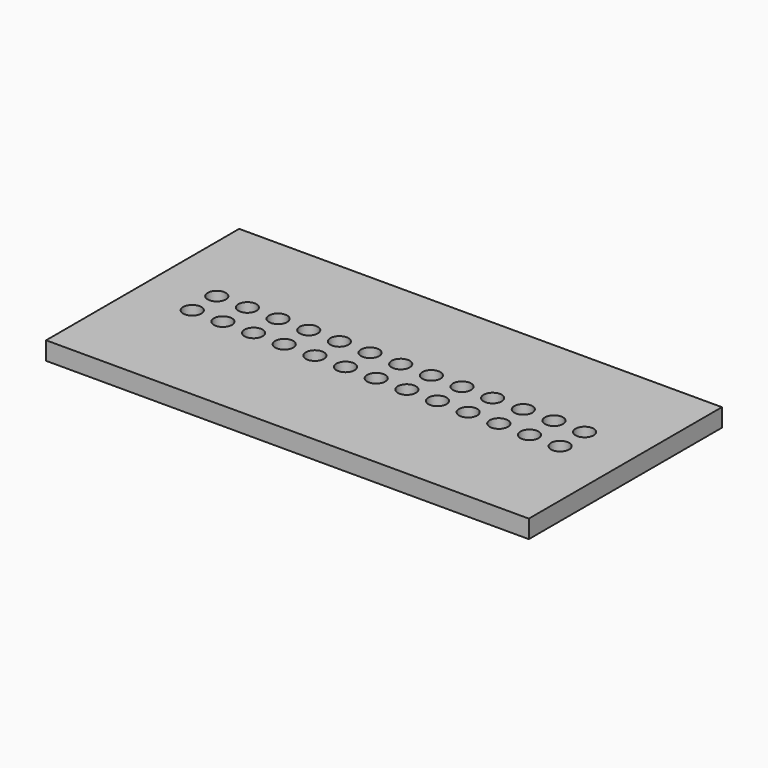
from build123d import *

# Parameters (mm, degrees)
F0_W     = 40
F0_H     = 20
F0_W_2   = 2.54
F0_H_2   = 1.23
F0_H_3   = 2.54
F0_W_3   = 1.26
F1_DEPTH = 1.5
F2_D     = 1.5


with BuildPart() as f1:
    # F0 (on Top) → F1 (new body)
    with BuildSketch(Plane.XY):
        Rectangle(F0_W, F0_H)
        Polygon((-16.5, 1.73), (-16.5, 2.96), (-15.24, 2.96), (-12.7, 2.96), (-10.16, 2.96), (-7.62, 2.96), (-5.08, 2.96), (-2.54, 2.96), (0, 2.96), (2.54, 2.96), (5.08, 2.96), (7.62, 2.96), (10.16, 2.96), (12.7, 2.96), (15.24, 2.96), (16.5, 2.96), (16.5, 1.73), (16.5, -0.81), (16.5, -2.04), (15.24, -2.04), (12.7, -2.04), (10.16, -2.04), (7.62, -2.04), (5.08, -2.04), (2.54, -2.04), (0, -2.04), (-2.54, -2.04), (-5.08, -2.04), (-7.62, -2.04), (-10.16, -2.04), (-12.7, -2.04), (-15.24, -2.04), (-16.5, -2.04), (-16.5, -0.81), align=None, mode=Mode.SUBTRACT)
        with Locations((-11.43, 2.345)):
            Rectangle(F0_W_2, F0_H_2)
        with Locations((-13.97, 2.345)):
            Rectangle(F0_W_2, F0_H_2)
        with Locations((1.27, 0.46)):
            Rectangle(F0_W_2, F0_H_3)
        with Locations((-1.27, -1.425)):
            Rectangle(F0_W_2, F0_H_2)
        with Locations((13.97, -1.425)):
            Rectangle(F0_W_2, F0_H_2)
        with Locations((13.97, 2.345)):
            Rectangle(F0_W_2, F0_H_2)
        with Locations((-15.87, 0.46)):
            Rectangle(F0_W_3, F0_H_3)
        with Locations((6.35, 0.46)):
            Rectangle(F0_W_2, F0_H_3)
        with Locations((6.35, -1.425)):
            Rectangle(F0_W_2, F0_H_2)
        with Locations((3.81, -1.425)):
            Rectangle(F0_W_2, F0_H_2)
        with Locations((8.89, 0.46)):
            Rectangle(F0_W_2, F0_H_3)
        with Locations((1.27, -1.425)):
            Rectangle(F0_W_2, F0_H_2)
        with Locations((-8.89, 0.46)):
            Rectangle(F0_W_2, F0_H_3)
        with Locations((-3.81, -1.425)):
            Rectangle(F0_W_2, F0_H_2)
        with Locations((11.43, 2.345)):
            Rectangle(F0_W_2, F0_H_2)
        with Locations((-13.97, -1.425)):
            Rectangle(F0_W_2, F0_H_2)
        with Locations((8.89, 2.345)):
            Rectangle(F0_W_2, F0_H_2)
        with Locations((-3.81, 2.345)):
            Rectangle(F0_W_2, F0_H_2)
        with Locations((-6.35, 2.345)):
            Rectangle(F0_W_2, F0_H_2)
        with Locations((1.27, 2.345)):
            Rectangle(F0_W_2, F0_H_2)
        with Locations((3.81, 2.345)):
            Rectangle(F0_W_2, F0_H_2)
        with Locations((15.87, 0.46)):
            Rectangle(F0_W_3, F0_H_3)
        with Locations((-1.27, 2.345)):
            Rectangle(F0_W_2, F0_H_2)
        with Locations((-8.89, 2.345)):
            Rectangle(F0_W_2, F0_H_2)
        with Locations((6.35, 2.345)):
            Rectangle(F0_W_2, F0_H_2)
        with Locations((-3.81, 0.46)):
            Rectangle(F0_W_2, F0_H_3)
        with Locations((-8.89, -1.425)):
            Rectangle(F0_W_2, F0_H_2)
        with Locations((-13.97, 0.46)):
            Rectangle(F0_W_2, F0_H_3)
        with Locations((3.81, 0.46)):
            Rectangle(F0_W_2, F0_H_3)
        with Locations((-11.43, 0.46)):
            Rectangle(F0_W_2, F0_H_3)
        with Locations((-11.43, -1.425)):
            Rectangle(F0_W_2, F0_H_2)
        with Locations((11.43, -1.425)):
            Rectangle(F0_W_2, F0_H_2)
        with Locations((-6.35, 0.46)):
            Rectangle(F0_W_2, F0_H_3)
        with Locations((-1.27, 0.46)):
            Rectangle(F0_W_2, F0_H_3)
        with Locations((13.97, 0.46)):
            Rectangle(F0_W_2, F0_H_3)
        with Locations((11.43, 0.46)):
            Rectangle(F0_W_2, F0_H_3)
        with Locations((8.89, -1.425)):
            Rectangle(F0_W_2, F0_H_2)
        with Locations((-6.35, -1.425)):
            Rectangle(F0_W_2, F0_H_2)
        with Locations((15.87, -1.425)):
            Rectangle(F0_W_3, F0_H_2)
        with Locations((-15.87, -1.425)):
            Rectangle(F0_W_3, F0_H_2)
        with Locations((15.87, 2.345)):
            Rectangle(F0_W_3, F0_H_2)
        with Locations((-15.87, 2.345)):
            Rectangle(F0_W_3, F0_H_2)
    extrude(amount=F1_DEPTH)

    # F2 (through all)
    with Locations(Plane(origin=(0, 0, 0), x_dir=(1, 0, 0), z_dir=(0, 0, -1))):
        with Locations((12.7, -1.73), (12.7, 0.81), (15.24, 0.81), (15.24, -1.73), (10.16, -1.73), (10.16, 0.81), (7.62, 0.81), (7.62, -1.73), (5.08, -1.73), (5.08, 0.81), (2.54, 0.81), (2.54, -1.73), (0, -1.73), (0, 0.81), (-2.54, 0.81), (-2.54, -1.73), (-5.08, -1.73), (-5.08, 0.81), (-7.62, 0.81), (-7.62, -1.73), (-10.16, -1.73), (-10.16, 0.81), (-12.7, 0.81), (-12.7, -1.73), (-15.24, -1.73), (-15.24, 0.81)):
            Hole(F2_D / 2)


solid = f1.part
